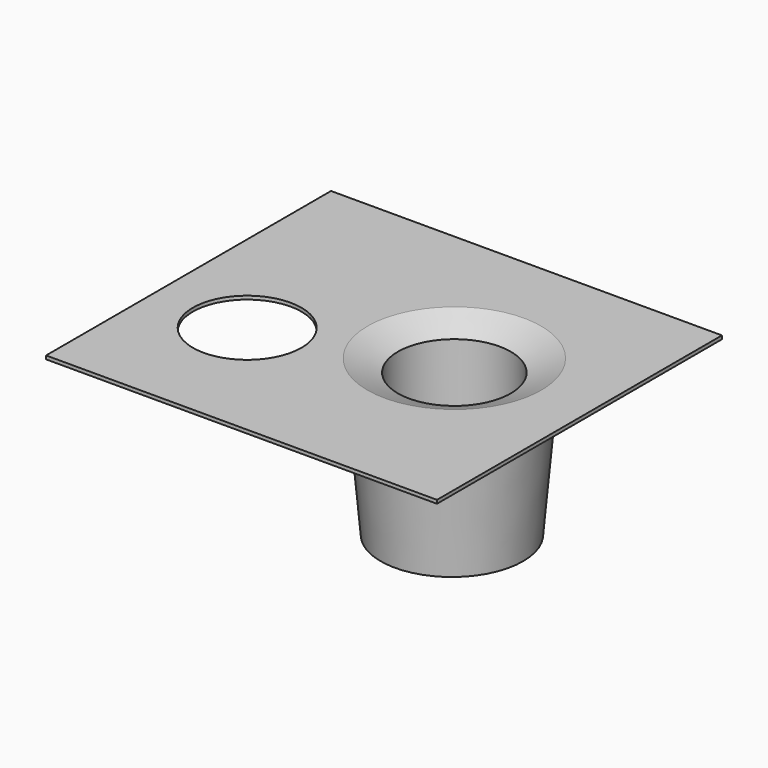
from build123d import *

# Parameters (mm, degrees)
F0_W           = 45
F0_H           = 41
F0_R           = 6.25
F1_DEPTH       = 0.4
F5_D           = 13
F5_CSINK_D     = 20
F5_CSINK_ANGLE = 135
F7_W           = 2.3
F7_H           = 4


with BuildPart() as f1:
    # F0 (on Top) → F1 (new body)
    with BuildSketch(Plane.XY):
        Rectangle(F0_W, F0_H)
        with Locations((-11.75, -5)):
            Circle(F0_R, mode=Mode.SUBTRACT)
    extrude(amount=-F1_DEPTH)

    # F3 (on plane+point) → F4 (revolve)
    with BuildSketch(Plane.XZ.offset(-2)):
        Polygon((16.0175038762, 0), (6.2175038762, 0), (6.2175038762, -18), (14.4175038762, -18), align=None)
    revolve(axis=Axis((6.2175038762, 2, -9), (0, 0, -1)))

    # F5 (through all)
    with Locations(Plane.XY):
        with Locations((6.5, 2)):
            CounterSinkHole(F5_D / 2, F5_CSINK_D / 2, counter_sink_angle=F5_CSINK_ANGLE)

    # F7 (on plane+point) → F8 (revolve)
    with BuildSketch(Plane.XZ.offset(-15.55)):
        with Locations((13.9514571965, -2)):
            Rectangle(F7_W, F7_H)
    revolve(axis=Axis((12.8014571965, 15.55, -2), (0, 0, -1)))


solid = f1.part
